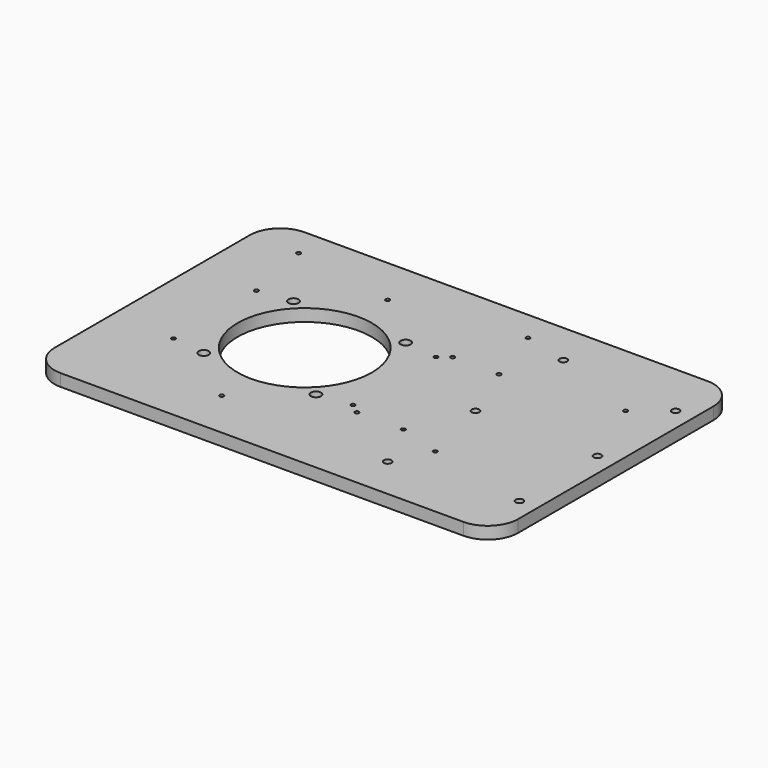
from build123d import *

# Parameters (mm, degrees)
F0_R      = 55
F1_DEPTH  = 10
F2_R      = 4.1
F3_DEPTH  = 25
F4_R      = 3.1
F5_DEPTH  = 25
F7_D      = 5.5
F7_DEPTH  = 25
F7_TIP    = 1.6523667023
F9_D      = 3.3
F9_DEPTH  = 14.1
F9_TIP    = 0.9914200214
F11_D     = 3.3
F11_DEPTH = 14.1
F11_TIP   = 0.9914200214
F14_D     = 3.3
F14_DEPTH = 14.1
F14_TIP   = 0.9914200214
F15_D     = 3.3
F15_DEPTH = 14.1
F15_TIP   = 0.9914200214


with BuildPart() as f1:
    # F0 (on Top) → F1 (new body)
    with BuildSketch(Plane.XY):
        with BuildLine():
            ThreePointArc((-125, -100), (-117.6776695297, -117.6776695297), (-100, -125))
            Line((-100, -125), (-26.5624980382, -125))
            Line((-26.5624980382, -125), (100.3501711662, -125))
            Line((100.3501711662, -125), (230, -125))
            ThreePointArc((230, -125), (247.6776695297, -117.6776695297), (255, -100))
            Line((255, -100), (255, 100))
            ThreePointArc((255, 100), (247.6776695297, 117.6776695297), (230, 125))
            Line((230, 125), (118.7077554191, 125))
            Line((118.7077554191, 125), (-26.5624980382, 125))
            Line((-26.5624980382, 125), (-100, 125))
            ThreePointArc((-100, 125), (-117.6776695297, 117.6776695297), (-125, 100))
            Line((-125, 100), (-125, -100))
        make_face()
        Circle(F0_R, mode=Mode.SUBTRACT)
    extrude(amount=F1_DEPTH)

    # F2 (on face) → F3 (cut)
    with BuildSketch(Plane.XY.offset(10)):
        with Locations((-45.9619407771, 45.9619407771)):
            Circle(F2_R)
        with Locations((45.9619407771, 45.9619407771)):
            Circle(F2_R)
        with Locations((45.9619407771, -45.9619407771)):
            Circle(F2_R)
        with Locations((-45.9619407771, -45.9619407771)):
            Circle(F2_R)
    extrude(amount=-F3_DEPTH, mode=Mode.SUBTRACT)

    # F4 (on face) → F5 (cut)
    with BuildSketch(Plane.XY.offset(10)):
        with Locations((140, 90)):
            Circle(F4_R)
        with Locations((140, 0)):
            Circle(F4_R)
        with Locations((140, -90)):
            Circle(F4_R)
        with Locations((240, -80)):
            Circle(F4_R)
        with Locations((240, 0)):
            Circle(F4_R)
        with Locations((240, 80)):
            Circle(F4_R)
    extrude(amount=-F5_DEPTH, mode=Mode.SUBTRACT)

    # F7
    with Locations(Plane(origin=(-125, 0, 0), x_dir=(0, -1, 0), z_dir=(-1, 0, 0))):
        with Locations((-66.5, 5), (66.5, 5)):
            Hole(F7_D / 2, depth=F7_DEPTH)
            with Locations((0, 0, -(F7_DEPTH + F7_TIP / 2))):  # 118° drill point
                Cone(0, F7_D / 2, F7_TIP, mode=Mode.SUBTRACT)

    # F9
    with Locations(Plane.XY.offset(10)):
        with Locations((82, 49), (120, 49), (120, -49), (82, -49)):
            Hole(F9_D / 2, depth=F9_DEPTH)
            with Locations((0, 0, -(F9_DEPTH + F9_TIP / 2))):  # 118° drill point
                Cone(0, F9_D / 2, F9_TIP, mode=Mode.SUBTRACT)

    # F11
    with Locations(Plane.XY.offset(10)):
        with Locations((-85, 100), (103, 100)):
            Hole(F11_D / 2, depth=F11_DEPTH)
            with Locations((0, 0, -(F11_DEPTH + F11_TIP / 2))):  # 118° drill point
                Cone(0, F11_D / 2, F11_TIP, mode=Mode.SUBTRACT)

    # F14
    with Locations(Plane.XY.offset(10)):
        with Locations((215, 60), (155, -60)):
            Hole(F14_D / 2, depth=F14_DEPTH)
            with Locations((0, 0, -(F14_DEPTH + F14_TIP / 2))):  # 118° drill point
                Cone(0, F14_D / 2, F14_TIP, mode=Mode.SUBTRACT)

    # F15
    with Locations(Plane(origin=(0, 0, 0), x_dir=(1, 0, 0), z_dir=(0, 0, -1))):
        with Locations((-73.6121593217, -42.5), (-73.6121593217, 42.5), (0, 85), (73.6121593217, 42.5), (73.6121593217, -42.5), (0, -85)):
            Hole(F15_D / 2, depth=F15_DEPTH)
            with Locations((0, 0, -(F15_DEPTH + F15_TIP / 2))):  # 118° drill point
                Cone(0, F15_D / 2, F15_TIP, mode=Mode.SUBTRACT)


solid = f1.part
